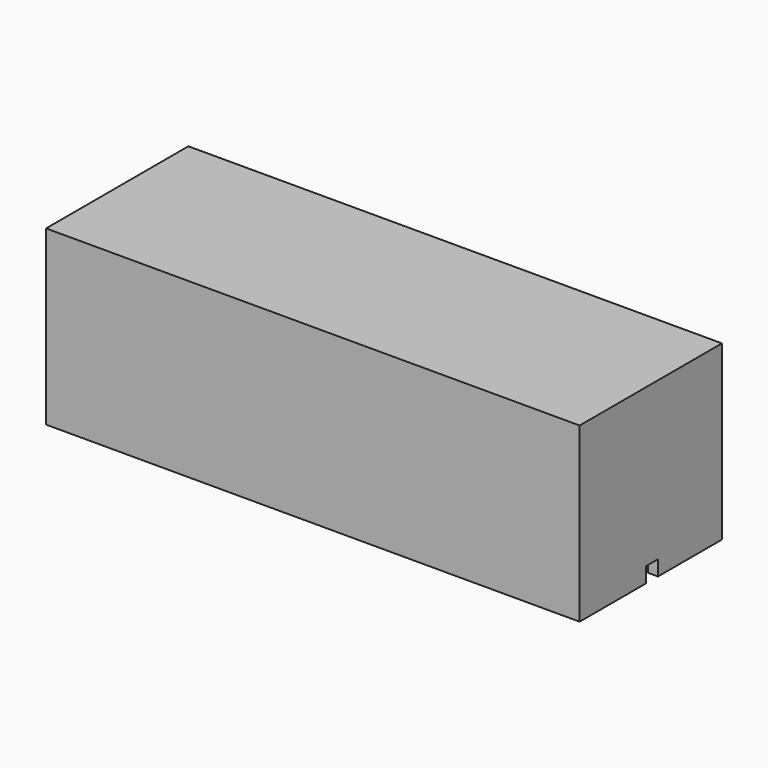
from build123d import *

# Parameters (mm, degrees)
SKETCH006_W     = 210
SKETCH006_H     = 70
PAD002_DEPTH    = 68
POCKET_DEPTH    = 65
SKETCH_W        = 7
SKETCH_H        = 5
POCKET001_DEPTH = 20
SKETCH008_W     = 6
SKETCH008_H     = 6
POCKET002_DEPTH = 10


with BuildPart() as part:
    # Sketch006 → Pad002 (new body)
    with BuildSketch(Plane.XY):
        with Locations((28.778721, -0.538714)):
            Rectangle(SKETCH006_W, SKETCH006_H)
    extrude(amount=PAD002_DEPTH)

    # Sketch007 (on Face5 of Pad002) → Pocket (cut)
    with BuildSketch(Plane(origin=(0, 0, 0), x_dir=(1, 0, 0), z_dir=(0, 0, -1))):
        Polygon((-66.221279, 31.538714), (-66.221279, 25.538714), (-72.221279, 25.538714), (-72.221279, -24.461286), (-66.221279, -24.461286), (-66.221279, -30.461286), (123.778721, -30.461286), (123.778721, -24.461286), (129.778721, -24.461286), (129.778721, 25.538714), (123.778721, 25.538714), (123.778721, 31.538714), align=None)
    extrude(amount=-POCKET_DEPTH, mode=Mode.SUBTRACT)

    # Sketch (on Face4 of Pad002) → Pocket001 (cut)
    with BuildSketch(Plane(origin=(-76.221279, 0, 0), x_dir=(0, -1, 0), z_dir=(-1, 0, 0))):
        with Locations((-13.5, 32.5)):
            Rectangle(SKETCH_W, SKETCH_H)
        with Locations((13.5, 32.5)):
            Rectangle(SKETCH_W, SKETCH_H)
    extrude(amount=-POCKET001_DEPTH, mode=Mode.SUBTRACT)

    # Sketch008 (on Face2 of Pad002) → Pocket002 (cut)
    with BuildSketch(Plane.YZ.offset(133.778721)):
        with Locations((0, 3)):
            Rectangle(SKETCH008_W, SKETCH008_H)
    extrude(amount=-POCKET002_DEPTH, mode=Mode.SUBTRACT)


solid = part.part
